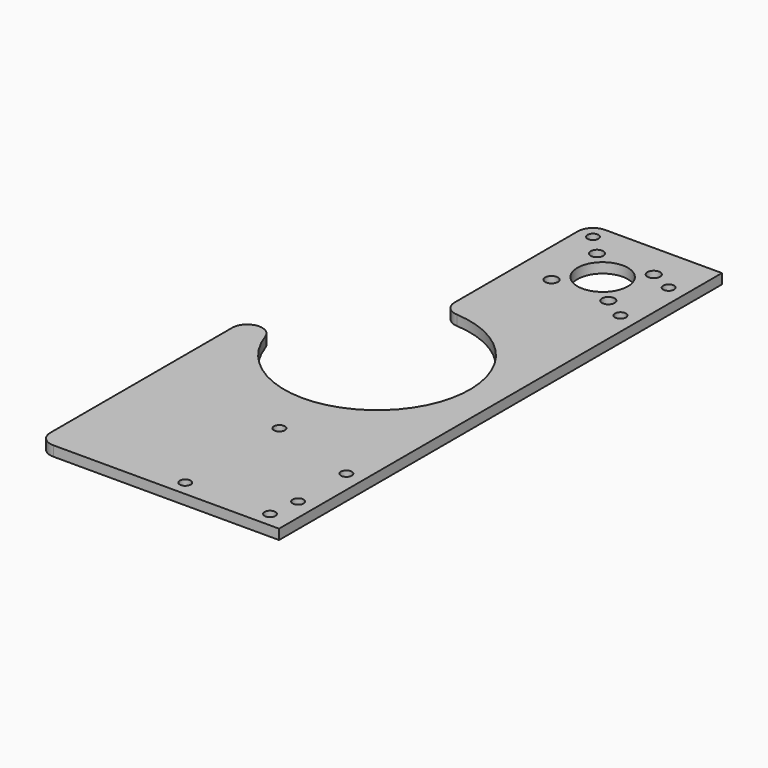
from build123d import *

# Parameters (mm, degrees)
F0_R     = 1.7272
F0_R_2   = 2
F0_R_3   = 7.9629
F1_DEPTH = 3.175


with BuildPart() as f1:
    # F0 (on Top) → F1 (new body)
    with BuildSketch(Plane.XY):
        with BuildLine():
            Line((-32.35325, -87.508576), (39.028472, -87.508576))
            Line((39.028472, -87.508576), (39.028472, 87.508576))
            Line((39.028472, 87.508576), (2.071472, 87.508576))
            ThreePointArc((2.071472, 87.508576), (-1.296124, 86.113672), (-2.691028, 82.746076))
            Line((-2.691028, 82.746076), (-2.691028, 34.068332))
            ThreePointArc((-2.691028, 34.068332), (-1.396811, 30.804527), (1.782429, 29.314611))
            ThreePointArc((1.782429, 29.314611), (23.314703, -17.859119), (-27.838843, -9.355335))
            ThreePointArc((-27.838843, -9.355335), (-33.121867, -6.172349), (-37.11575, -10.872417))
            Line((-37.11575, -10.872417), (-37.11575, -82.746076))
            ThreePointArc((-37.11575, -82.746076), (-35.720846, -86.113672), (-32.35325, -87.508576))
        make_face()
        with Locations((5.55625, -82.746076)):
            Circle(F0_R, mode=Mode.SUBTRACT)
        with Locations((5.55625, -45.545693)):
            Circle(F0_R, mode=Mode.SUBTRACT)
        with Locations((32.35325, -82.746076)):
            Circle(F0_R, mode=Mode.SUBTRACT)
        with Locations((33.630972, -73.221076)):
            Circle(F0_R, mode=Mode.SUBTRACT)
        with Locations((33.630972, -54.171076)):
            Circle(F0_R, mode=Mode.SUBTRACT)
        with Locations((8.394715, 58.46232)):
            Circle(F0_R_2, mode=Mode.SUBTRACT)
        with Locations((8.394715, 76.422832)):
            Circle(F0_R_2, mode=Mode.SUBTRACT)
        with Locations((2.071472, 82.746076)):
            Circle(F0_R, mode=Mode.SUBTRACT)
        with Locations((17.374972, 67.442576)):
            Circle(F0_R_3, mode=Mode.SUBTRACT)
        with Locations((26.355228, 58.46232)):
            Circle(F0_R_2, mode=Mode.SUBTRACT)
        with Locations((33.630972, 54.171076)):
            Circle(F0_R, mode=Mode.SUBTRACT)
        with Locations((26.355228, 76.422832)):
            Circle(F0_R_2, mode=Mode.SUBTRACT)
        with Locations((33.630972, 73.221076)):
            Circle(F0_R, mode=Mode.SUBTRACT)
    extrude(amount=F1_DEPTH)


solid = f1.part
